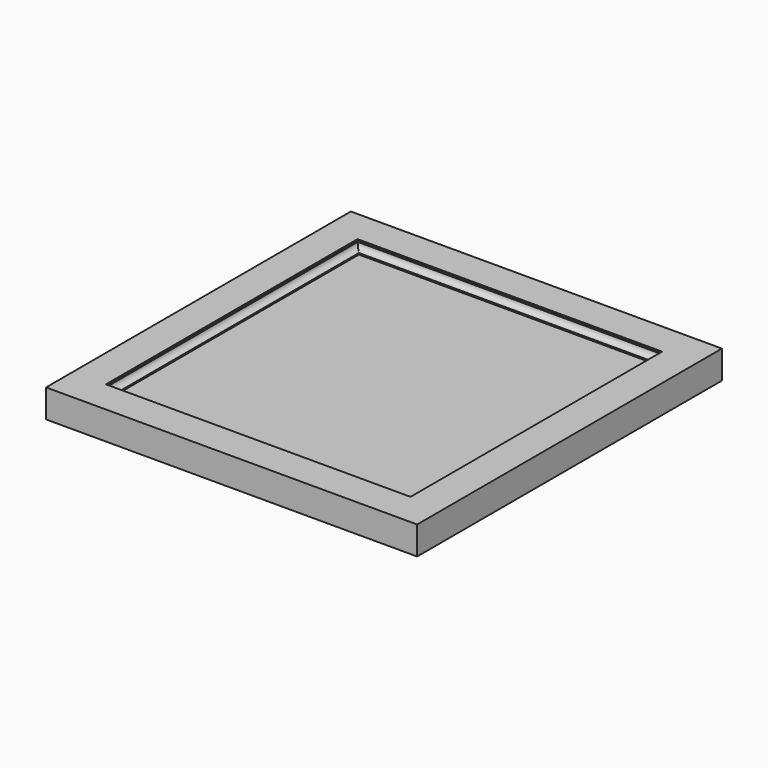
from build123d import *

# Parameters (mm, degrees)
F0_W     = 1315
F0_H     = 1350
F1_DEPTH = 100
F2_W     = 1100
F2_H     = 1135
F3_DEPTH = 30


with BuildPart() as f1:
    # F0 (on Top) → F1 (new body)
    with BuildSketch(Plane.XY):
        Rectangle(F0_W, F0_H)
    extrude(amount=F1_DEPTH)

    # F2 (on face) → F3 (cut)
    with BuildSketch(Plane.XY.offset(100)):
        Rectangle(F2_W, F2_H)
    extrude(amount=-F3_DEPTH, mode=Mode.SUBTRACT)

    # F6: sweep along a path in F5
    with BuildLine(Plane.XY.offset(70)) as f6_path:
        Line((550, 567.5), (550, -567.5))
        Line((550, -567.5), (-550, -567.5))
        Line((-550, -567.5), (-550, 567.5))
        Line((-550, 567.5), (550, 567.5))
    # F4 (on Right) → F6 (sweep)
    with BuildSketch(Plane.YZ):
        with BuildLine():
            Line((-567.5, 100), (-567.5, 70))
            Line((-567.5, 70), (-532.1858882904, 70))
            Line((-532.1858882904, 70), (-532.1858882904, 75))
            ThreePointArc((-532.1858882904, 75), (-546.3280239141, 80.8578643763), (-552.1858882904, 95))
            Line((-552.1858882904, 95), (-557.1858882904, 95))
            Line((-557.1858882904, 95), (-557.1858882904, 100))
            Line((-557.1858882904, 100), (-567.5, 100))
        make_face()
    sweep(path=f6_path.line, transition=Transition.RIGHT)


solid = f1.part
